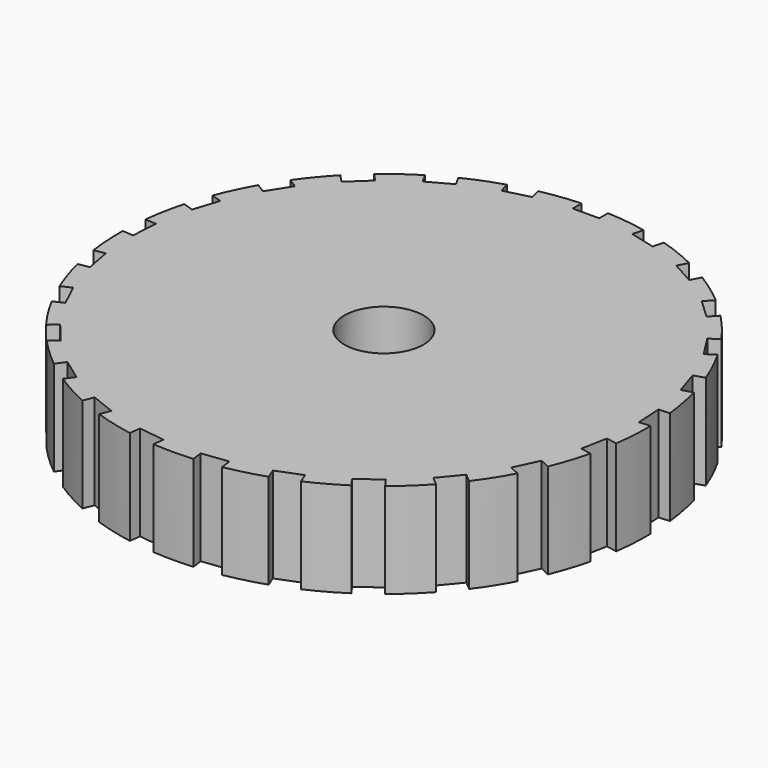
from build123d import *

# Parameters (mm, degrees)
F0_R     = 2.54
F0_R_2   = 0.381
F1_DEPTH = 0.9144
F2_W     = 0.254
F2_H     = 0.237537
F3_DEPTH = 25.4


with BuildPart() as f1:
    # F0 (on Top) → F1 (new body)
    with BuildSketch(Plane.XY):
        Circle(F0_R)
        Circle(F0_R_2, mode=Mode.SUBTRACT)
    extrude(amount=F1_DEPTH)

    # F2 (on face) → F3 (cut)
    with BuildSketch(Plane.XY.offset(0.9144)):
        with Locations((0, 2.549438)):
            Rectangle(F2_W, F2_H)
        Polygon((-0.481473, 2.38589), (-0.540546, 2.615964), (-0.786566, 2.552797), (-0.727493, 2.322722), align=None)
        Polygon((-1.059693, 2.191195), (-1.174128, 2.39935), (-1.39671, 2.276985), (-1.282275, 2.06883), align=None)
        Polygon((-1.571329, 1.85882), (-1.733934, 2.031977), (-1.919092, 1.858102), (-1.756487, 1.684945), align=None)
        Polygon((-1.984232, 1.409648), (-2.184792, 1.536927), (-2.320892, 1.322467), (-2.120332, 1.195188), align=None)
        Polygon((-2.272459, 0.871902), (-2.498371, 0.945306), (-2.576861, 0.703737), (-2.35095, 0.630334), align=None)
        Polygon((-2.417899, 0.279372), (-2.654968, 0.294288), (-2.670916, 0.040789), (-2.433848, 0.025874), align=None)
        Polygon((-2.411413, -0.330712), (-2.644743, -0.375222), (-2.597148, -0.624723), (-2.363819, -0.580213), align=None)
        Polygon((-2.25341, -0.920016), (-2.46834, -1.021154), (-2.360192, -1.25098), (-2.145262, -1.149842), align=None)
        Polygon((-1.953816, -1.451512), (-2.136842, -1.602924), (-1.974936, -1.798634), (-1.79191, -1.647222), align=None)
        Polygon((-1.531457, -1.891804), (-1.671078, -2.083976), (-1.465588, -2.233274), (-1.325967, -2.041102), align=None)
        Polygon((-1.012871, -2.213228), (-1.100314, -2.434084), (-0.864151, -2.527588), (-0.776708, -2.306732), align=None)
        Polygon((-0.430642, -2.395586), (-0.460414, -2.63125), (-0.208416, -2.663085), (-0.178645, -2.427421), align=None)
        Polygon((0.178645, -2.427421), (0.208416, -2.663085), (0.460414, -2.63125), (0.430642, -2.395586), align=None)
        Polygon((0.776708, -2.306732), (0.864151, -2.527588), (1.100314, -2.434084), (1.012871, -2.213228), align=None)
        Polygon((1.325967, -2.041102), (1.465588, -2.233274), (1.671078, -2.083976), (1.531457, -1.891804), align=None)
        Polygon((1.79191, -1.647222), (1.974936, -1.798634), (2.136842, -1.602924), (1.953816, -1.451512), align=None)
        Polygon((2.145262, -1.149842), (2.360192, -1.25098), (2.46834, -1.021154), (2.25341, -0.920016), align=None)
        Polygon((2.363819, -0.580213), (2.597148, -0.624723), (2.644743, -0.375222), (2.411413, -0.330712), align=None)
        Polygon((2.433848, 0.025874), (2.670916, 0.040789), (2.654968, 0.294288), (2.417899, 0.279372), align=None)
        Polygon((2.35095, 0.630334), (2.576861, 0.703737), (2.498371, 0.945306), (2.272459, 0.871902), align=None)
        Polygon((2.120332, 1.195188), (2.320892, 1.322467), (2.184792, 1.536927), (1.984232, 1.409648), align=None)
        Polygon((1.756487, 1.684945), (1.919092, 1.858102), (1.733934, 2.031977), (1.571329, 1.85882), align=None)
        Polygon((1.282275, 2.06883), (1.39671, 2.276985), (1.174128, 2.39935), (1.059693, 2.191195), align=None)
        Polygon((0.727493, 2.322722), (0.786566, 2.552797), (0.540546, 2.615964), (0.481473, 2.38589), align=None)
    extrude(amount=-F3_DEPTH, mode=Mode.SUBTRACT)


solid = f1.part
